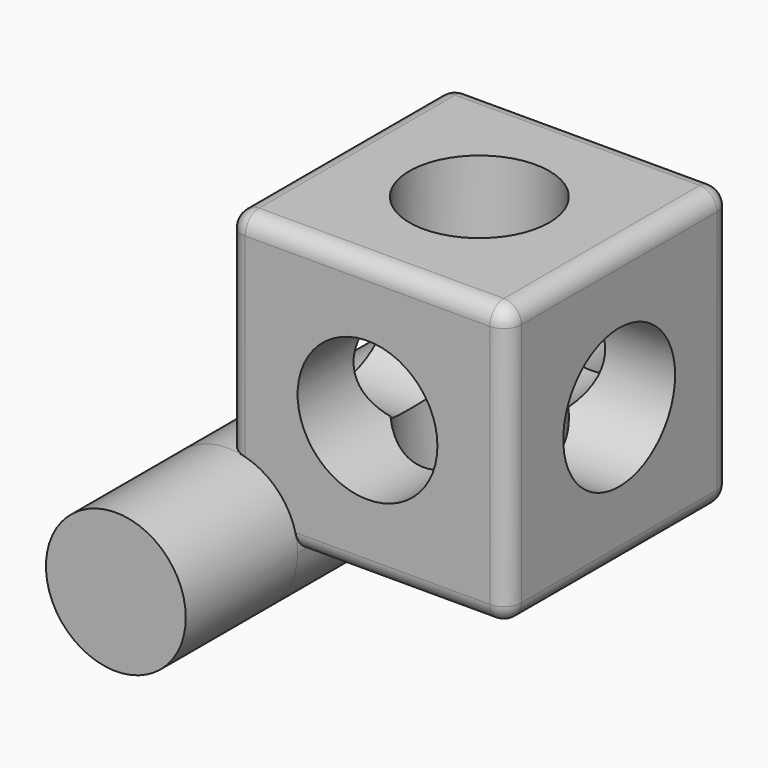
from build123d import *

# Parameters (mm, degrees)
F0_W           = 101.6
F0_H           = 101.6
F1_DEPTH       = 101.6
F2_R           = 25.4
F3_DEPTH       = 101.6
F4_R           = 25.4
F5_DEPTH       = 101.6
F6_R           = 25.4
F7_DEPTH       = 101.6
F8_R           = 6.35
F10_R          = 25.4
F11_DEPTH      = 50.8
F11_DEPTH_BACK = 152.4


with BuildPart() as f1:
    # F0 (on Front) → F1 (new body)
    with BuildSketch(Plane.XZ):
        with Locations((50.8, 50.8)):
            Rectangle(F0_W, F0_H)
    extrude(amount=F1_DEPTH)

    # F2 (on face) → F3 (cut)
    with BuildSketch(Plane.XY.offset(101.6)):
        with Locations((50.8, -50.8)):
            Circle(F2_R)
    extrude(amount=-F3_DEPTH, mode=Mode.SUBTRACT)

    # F4 (on face) → F5 (cut)
    with BuildSketch(Plane.XZ.offset(101.6)):
        with Locations((50.8, 50.8)):
            Circle(F4_R)
    extrude(amount=-F5_DEPTH, mode=Mode.SUBTRACT)

    # F6 (on face) → F7 (cut)
    with BuildSketch(Plane.YZ.offset(101.6)):
        with Locations((-50.8, 50.8)):
            Circle(F6_R)
    extrude(amount=-F7_DEPTH, mode=Mode.SUBTRACT)

    # F8
    f8_edges = [f1.edges().sort_by_distance(p)[0] for p in [
        (50.8, -101.6, 101.6),
        (0, -50.8, 101.6),
        (50.8, 0, 101.6),
        (101.6, -50.8, 101.6),
        (0, -101.6, 50.8),
        (101.6, -101.6, 50.8),
        (50.8, -101.6, 0),
        (101.6, -50.8, 0),
        (101.6, 0, 50.8),
        (0, 0, 50.8),
        (50.8, 0, 0),
        (0, -50.8, 0),
    ]]
    fillet(f8_edges, radius=F8_R)

    # F10 (on offset) → F11 (join, two sides)
    with BuildSketch(Plane.XZ.offset(101.6)) as f11_sk:
        Circle(F10_R)
    extrude(amount=F11_DEPTH)
    extrude(f11_sk.sketch, amount=-F11_DEPTH_BACK)


solid = f1.part
